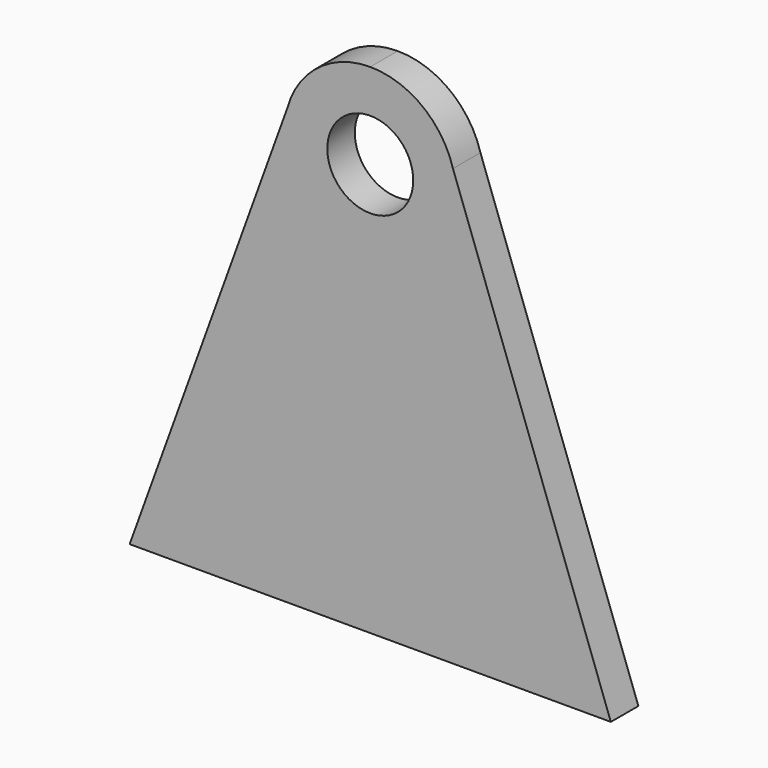
from build123d import *

# Parameters (mm, degrees)
F0_R     = 25
F1_DEPTH = 20


with BuildPart() as f1:
    # F0 (on Front) → F1 (new body)
    with BuildSketch(Plane.XZ):
        with BuildLine():
            Line((-88.71501, 146.156971), (-180.591371, -107.41194))
            Line((-180.591371, -107.41194), (-40.591371, -107.41194))
            Line((-40.591371, -107.41194), (99.408629, -107.41194))
            Line((99.408629, -107.41194), (7.532268, 146.156971))
            ThreePointArc((7.532268, 146.156971), (-10.412286, 172.453117), (-40.591371, 182.58806))
            ThreePointArc((-40.591371, 182.58806), (-70.770457, 172.453117), (-88.71501, 146.156971))
        make_face()
        with Locations((-40.591371, 132.58806)):
            Circle(F0_R, mode=Mode.SUBTRACT)
    extrude(amount=-F1_DEPTH)


solid = f1.part
